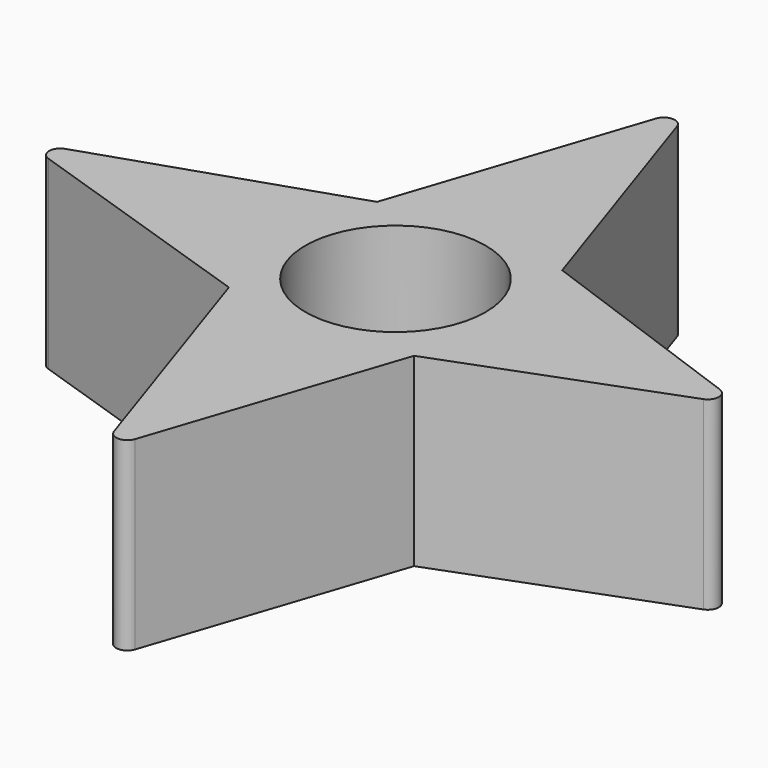
from build123d import *

# Parameters (mm, degrees)
F0_R     = 6.179709
F1_DEPTH = 12.7
F2_R     = 0.762


with BuildPart() as f1:
    # F0 (on Top) → F1 (new body)
    with BuildSketch(Plane.XY):
        Polygon((6.35, -6.35), (23.169448, 0), (23.514125, 0.130129), (6.35, 6.35), (0, 25.4), (-6.35, 6.35), (-25.4, 0), (-6.35, -6.35), (0, -25.4), align=None)
        Circle(F0_R, mode=Mode.SUBTRACT)
    extrude(amount=F1_DEPTH)

    # F2
    f2_edges = [f1.edges().sort_by_distance(p)[0] for p in [
        (23.514125, 0.130129, 6.35),
        (-25.4, 0, 6.35),
        (0, 25.4, 6.35),
        (0, -25.4, 6.35),
    ]]
    fillet(f2_edges, radius=F2_R)


solid = f1.part
